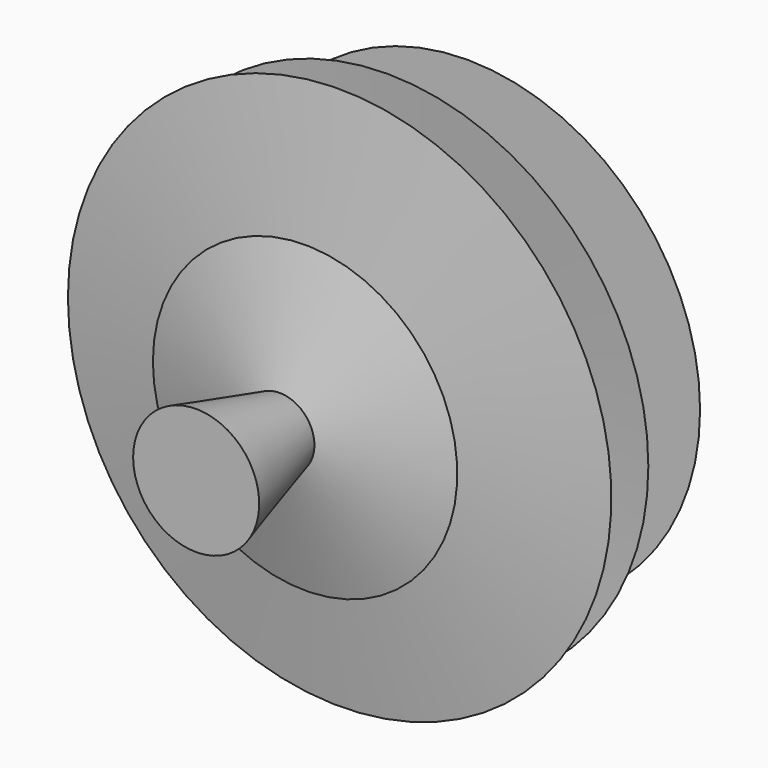
from build123d import *


with BuildPart() as f1:
    # F0 (on Top) → F1 (revolve)
    with BuildSketch(Plane.XY):
        Polygon((-4.590164, -9.897541), (-8.319673, -23.668032), (0, -23.668032), (0, 43.463115), (-30.696722, 21.086067), (-7.172131, 21.086067), (-34.426231, 7.889344), (-7.459017, 10.184427), (-35.860658, 0), (-9.467213, -3.29918), (-20.08684, -5.700523), align=None)
    revolve(axis=Axis((0, 9.18033, 0), (0, -1, 0)))


solid = f1.part
